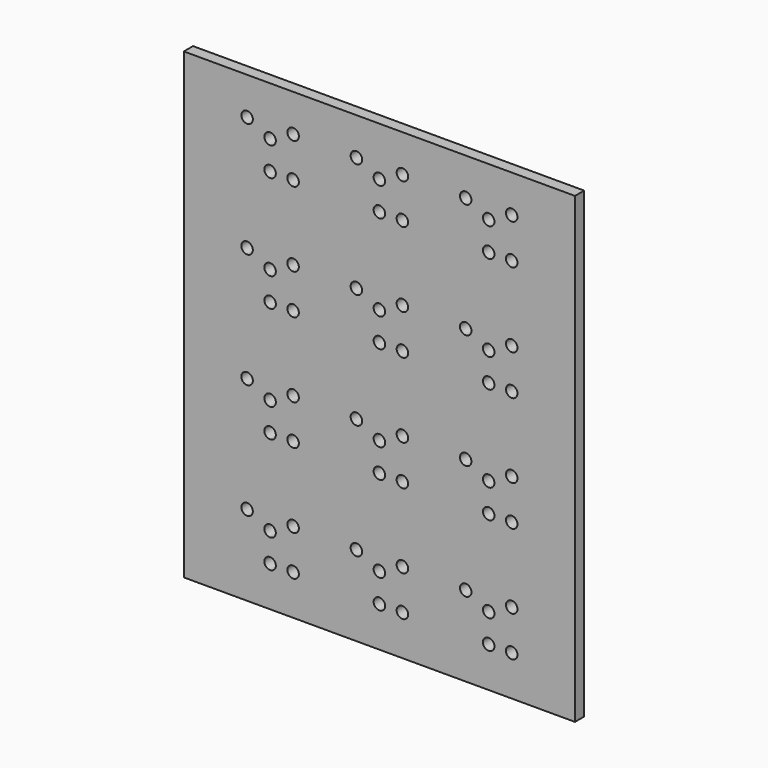
from build123d import *

# Parameters (mm, degrees)
F0_W     = 863.6
F0_H     = 1022.35
F0_R     = 12.7
F1_DEPTH = 25.4


with BuildPart() as f1:
    # F0 (on Front) → F1 (new body)
    with BuildSketch(Plane.XZ):
        Rectangle(F0_W, F0_H)
        with Locations((-241.3, -422.275)):
            Circle(F0_R, mode=Mode.SUBTRACT)
        with Locations((-292.1, -333.375)):
            Circle(F0_R, mode=Mode.SUBTRACT)
        with Locations((-241.3, -358.775)):
            Circle(F0_R, mode=Mode.SUBTRACT)
        with Locations((-190.5, -422.275)):
            Circle(F0_R, mode=Mode.SUBTRACT)
        with Locations((-190.5, -333.375)):
            Circle(F0_R, mode=Mode.SUBTRACT)
        with Locations((-50.8, -333.375)):
            Circle(F0_R, mode=Mode.SUBTRACT)
        with Locations((-241.3, -168.275)):
            Circle(F0_R, mode=Mode.SUBTRACT)
        with Locations((-292.1, -79.375)):
            Circle(F0_R, mode=Mode.SUBTRACT)
        with Locations((-241.3, -104.775)):
            Circle(F0_R, mode=Mode.SUBTRACT)
        with Locations((-190.5, -168.275)):
            Circle(F0_R, mode=Mode.SUBTRACT)
        with Locations((-190.5, -79.375)):
            Circle(F0_R, mode=Mode.SUBTRACT)
        with Locations((-50.8, -79.375)):
            Circle(F0_R, mode=Mode.SUBTRACT)
        with Locations((0, -422.275)):
            Circle(F0_R, mode=Mode.SUBTRACT)
        with Locations((50.8, -422.275)):
            Circle(F0_R, mode=Mode.SUBTRACT)
        with Locations((0, -358.775)):
            Circle(F0_R, mode=Mode.SUBTRACT)
        with Locations((50.8, -333.375)):
            Circle(F0_R, mode=Mode.SUBTRACT)
        with Locations((190.5, -333.375)):
            Circle(F0_R, mode=Mode.SUBTRACT)
        with Locations((241.3, -422.275)):
            Circle(F0_R, mode=Mode.SUBTRACT)
        with Locations((292.1, -422.275)):
            Circle(F0_R, mode=Mode.SUBTRACT)
        with Locations((241.3, -358.775)):
            Circle(F0_R, mode=Mode.SUBTRACT)
        with Locations((292.1, -333.375)):
            Circle(F0_R, mode=Mode.SUBTRACT)
        with Locations((0, -168.275)):
            Circle(F0_R, mode=Mode.SUBTRACT)
        with Locations((50.8, -168.275)):
            Circle(F0_R, mode=Mode.SUBTRACT)
        with Locations((0, -104.775)):
            Circle(F0_R, mode=Mode.SUBTRACT)
        with Locations((50.8, -79.375)):
            Circle(F0_R, mode=Mode.SUBTRACT)
        with Locations((190.5, -79.375)):
            Circle(F0_R, mode=Mode.SUBTRACT)
        with Locations((241.3, -168.275)):
            Circle(F0_R, mode=Mode.SUBTRACT)
        with Locations((292.1, -168.275)):
            Circle(F0_R, mode=Mode.SUBTRACT)
        with Locations((241.3, -104.775)):
            Circle(F0_R, mode=Mode.SUBTRACT)
        with Locations((292.1, -79.375)):
            Circle(F0_R, mode=Mode.SUBTRACT)
        with Locations((-241.3, 85.725)):
            Circle(F0_R, mode=Mode.SUBTRACT)
        with Locations((-292.1, 174.625)):
            Circle(F0_R, mode=Mode.SUBTRACT)
        with Locations((-241.3, 149.225)):
            Circle(F0_R, mode=Mode.SUBTRACT)
        with Locations((-190.5, 85.725)):
            Circle(F0_R, mode=Mode.SUBTRACT)
        with Locations((-190.5, 174.625)):
            Circle(F0_R, mode=Mode.SUBTRACT)
        with Locations((-50.8, 174.625)):
            Circle(F0_R, mode=Mode.SUBTRACT)
        with Locations((-241.3, 339.725)):
            Circle(F0_R, mode=Mode.SUBTRACT)
        with Locations((-292.1, 428.625)):
            Circle(F0_R, mode=Mode.SUBTRACT)
        with Locations((-241.3, 403.225)):
            Circle(F0_R, mode=Mode.SUBTRACT)
        with Locations((-190.5, 339.725)):
            Circle(F0_R, mode=Mode.SUBTRACT)
        with Locations((-190.5, 428.625)):
            Circle(F0_R, mode=Mode.SUBTRACT)
        with Locations((-50.8, 428.625)):
            Circle(F0_R, mode=Mode.SUBTRACT)
        with Locations((0, 85.725)):
            Circle(F0_R, mode=Mode.SUBTRACT)
        with Locations((50.8, 85.725)):
            Circle(F0_R, mode=Mode.SUBTRACT)
        with Locations((0, 149.225)):
            Circle(F0_R, mode=Mode.SUBTRACT)
        with Locations((50.8, 174.625)):
            Circle(F0_R, mode=Mode.SUBTRACT)
        with Locations((190.5, 174.625)):
            Circle(F0_R, mode=Mode.SUBTRACT)
        with Locations((241.3, 85.725)):
            Circle(F0_R, mode=Mode.SUBTRACT)
        with Locations((292.1, 85.725)):
            Circle(F0_R, mode=Mode.SUBTRACT)
        with Locations((241.3, 149.225)):
            Circle(F0_R, mode=Mode.SUBTRACT)
        with Locations((292.1, 174.625)):
            Circle(F0_R, mode=Mode.SUBTRACT)
        with Locations((0, 339.725)):
            Circle(F0_R, mode=Mode.SUBTRACT)
        with Locations((50.8, 339.725)):
            Circle(F0_R, mode=Mode.SUBTRACT)
        with Locations((0, 403.225)):
            Circle(F0_R, mode=Mode.SUBTRACT)
        with Locations((50.8, 428.625)):
            Circle(F0_R, mode=Mode.SUBTRACT)
        with Locations((190.5, 428.625)):
            Circle(F0_R, mode=Mode.SUBTRACT)
        with Locations((241.3, 339.725)):
            Circle(F0_R, mode=Mode.SUBTRACT)
        with Locations((292.1, 339.725)):
            Circle(F0_R, mode=Mode.SUBTRACT)
        with Locations((241.3, 403.225)):
            Circle(F0_R, mode=Mode.SUBTRACT)
        with Locations((292.1, 428.625)):
            Circle(F0_R, mode=Mode.SUBTRACT)
    extrude(amount=F1_DEPTH)


solid = f1.part
